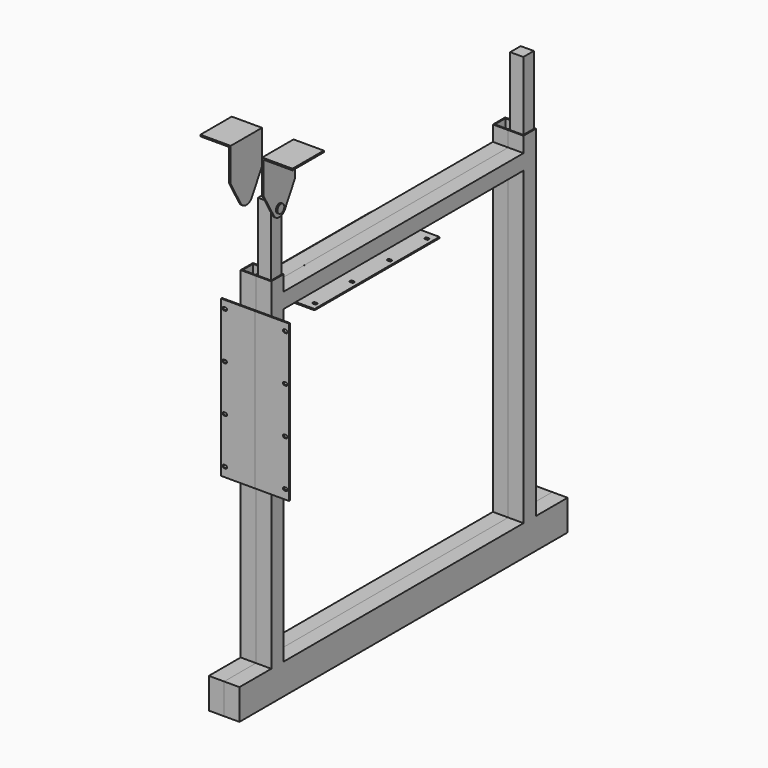
from build123d import *

# Parameters (mm, degrees)
F1_DEPTH  = 25
F0_W      = 255
F0_H      = 2
F0_W_2    = 2
F0_H_2    = 255
F2_DEPTH  = 55.7
F4_DEPTH  = 5
F6_DEPTH  = 28.93182
F7_W      = 21.4
F7_H      = 21.4
F8_DEPTH  = 400
F9_DEPTH  = 512
F10_DEPTH = 512
F11_R     = 7
F12_DEPTH = 2.5
F13_START = 2.5
F13_DEPTH = 5
F14_START = 2.5
F14_DEPTH = 2.5
F15_START = 2.5
F15_DEPTH = 49.5


with BuildPart() as f1:
    # F0 (on Right) → F1 (new body)
    with BuildSketch(Plane.YZ):
        Polygon((-335, 50), (-335, 0), (335, 0), (335, 50), (270, 50), (245, 50), (-245, 50), (-270, 50), align=None)
        Polygon((245, 50), (270, 50), (270, 607), (245, 607), (245, 582), (245, 557), align=None)
        Polygon((-270, 302), (-270, 50), (-245, 50), (-245, 557), (-245, 582), (-245, 607), (-270, 607), (-270, 557), align=None)
        Polygon((-245, 582), (-245, 557), (-220, 557), (35, 557), (245, 557), (245, 582), align=None)
    extrude(amount=F1_DEPTH)

    # F0 (on Right) → F2 (join)
    with BuildSketch(Plane.YZ):
        with Locations((-92.5, 556)):
            Rectangle(F0_W, F0_H)
        with Locations((-271, 429.5)):
            Rectangle(F0_W_2, F0_H_2)
    extrude(amount=F2_DEPTH)

    # F3 (on face) → F4 (cut)
    with BuildSketch(Plane.XY.offset(557)):
        with BuildLine():
            Line((45.2070857087, -209.9991794528), (46.7023868708, -209.9608588466))
            Line((46.7023868708, -209.9608588466), (47.7091592266, -209.9350579391))
            ThreePointArc((47.7091592266, -209.9350579391), (49.6176799062, -207.1448250726), (47.001427156, -205.0040139691))
            Line((47.001427156, -205.0040139691), (45.1484460147, -205.0000058485))
            ThreePointArc((45.1484460147, -205.0000058485), (42.6432103321, -207.5293226766), (45.2070857087, -209.9991794528))
        make_face()
        with BuildLine():
            Line((45.2070857087, -133.7991794528), (46.7023868708, -133.7608588466))
            Line((46.7023868708, -133.7608588466), (47.7091592266, -133.7350579391))
            ThreePointArc((47.7091592266, -133.7350579391), (49.6176799062, -130.9448250726), (47.001427156, -128.8040139691))
            Line((47.001427156, -128.8040139691), (45.1484460147, -128.8000058485))
            ThreePointArc((45.1484460147, -128.8000058485), (42.6432103321, -131.3293226766), (45.2070857087, -133.7991794528))
        make_face()
        with BuildLine():
            Line((45.2070857087, -57.5991794528), (46.7023868708, -57.5608588466))
            Line((46.7023868708, -57.5608588466), (47.7091592266, -57.5350579391))
            ThreePointArc((47.7091592266, -57.5350579391), (49.6176799062, -54.7448250726), (47.001427156, -52.6040139691))
            Line((47.001427156, -52.6040139691), (45.1484460147, -52.6000058485))
            ThreePointArc((45.1484460147, -52.6000058485), (42.6432103321, -55.1293226766), (45.2070857087, -57.5991794528))
        make_face()
        with BuildLine():
            Line((45.2070857087, 18.6008205472), (46.7023868708, 18.6391411534))
            Line((46.7023868708, 18.6391411534), (47.7091592266, 18.6649420609))
            ThreePointArc((47.7091592266, 18.6649420609), (49.6176799062, 21.4551749274), (47.001427156, 23.5959860309))
            Line((47.001427156, 23.5959860309), (45.1484460147, 23.5999941515))
            ThreePointArc((45.1484460147, 23.5999941515), (42.6432103321, 21.0706773234), (45.2070857087, 18.6008205472))
        make_face()
    extrude(amount=-F4_DEPTH, mode=Mode.SUBTRACT)

    # F5 (on face) → F6 (cut)
    with BuildSketch(Plane.XZ.offset(272)):
        with BuildLine():
            Line((48.2, 541.5), (50.7, 541.5))
            ThreePointArc((50.7, 541.5), (53.1999999266, 544.0006056188), (50.6987887625, 546.4999997066))
            Line((50.6987887625, 546.4999997066), (48.2766014255, 546.4988261687))
            ThreePointArc((48.2766014255, 546.4988261687), (45.700293475, 544.0383052094), (48.2, 541.5))
        make_face()
        with BuildLine():
            Line((48.2, 465.9), (50.7, 465.9))
            ThreePointArc((50.7, 465.9), (53.1999999266, 468.4006056188), (50.6987887625, 470.8999997066))
            Line((50.6987887625, 470.8999997066), (48.2766014255, 470.8988261687))
            ThreePointArc((48.2766014255, 470.8988261687), (45.700293475, 468.4383052094), (48.2, 465.9))
        make_face()
        with BuildLine():
            Line((48.2, 390.3), (50.7, 390.3))
            ThreePointArc((50.7, 390.3), (53.1999999266, 392.8006056188), (50.6987887625, 395.2999997066))
            Line((50.6987887625, 395.2999997066), (48.2766014255, 395.2988261687))
            ThreePointArc((48.2766014255, 395.2988261687), (45.700293475, 392.8383052094), (48.2, 390.3))
        make_face()
        with BuildLine():
            Line((48.2, 314.7), (50.7, 314.7))
            ThreePointArc((50.7, 314.7), (53.1999999266, 317.2006056188), (50.6987887625, 319.6999997066))
            Line((50.6987887625, 319.6999997066), (48.2766014255, 319.6988261687))
            ThreePointArc((48.2766014255, 319.6988261687), (45.700293475, 317.2383052094), (48.2, 314.7))
        make_face()
    extrude(amount=-F6_DEPTH, mode=Mode.SUBTRACT)

    # F7 (on face) → F8 (cut)
    with BuildSketch(Plane.XY.offset(607)):
        with Locations((12.5, 257.5)):
            Rectangle(F7_W, F7_H)
        with Locations((12.5, -257.5)):
            Rectangle(F7_W, F7_H)
    extrude(amount=-F8_DEPTH, mode=Mode.SUBTRACT)


with BuildPart() as f9:
    # F9 (new): a face of the model
    f9_faces = [f1.part.faces().sort_by_distance(p)[0] for p in [
        (12.5, -257.5, 207),
    ]]
    extrude(f9_faces, amount=F9_DEPTH)


with BuildPart() as f10:
    # F10 (new): a face of the model
    f10_faces = [f1.part.faces().sort_by_distance(p)[0] for p in [
        (12.5, 257.5, 207),
    ]]
    extrude(f10_faces, amount=F10_DEPTH)


with BuildPart() as f12:
    # F11 (on face) → F12 (new body)
    with BuildSketch(Plane.YZ.offset(23.2)):
        with BuildLine():
            ThreePointArc((-268.2, 708.3), (-257.5, 697.6), (-246.8, 708.3))
            ThreePointArc((-246.8, 708.3), (-249.9339574413, 715.8660425587), (-257.5, 719))
            ThreePointArc((-257.5, 719), (-265.0660425587, 715.8660425587), (-268.2, 708.3))
        make_face()
        with Locations((-257.5, 708.3)):
            Circle(F11_R, mode=Mode.SUBTRACT)
    extrude(amount=F12_DEPTH)


with BuildPart() as f13:
    # F11 (on face) → F13 (new body)
    with BuildSketch(Plane.YZ.offset(23.2).offset(F13_START)):
        with Locations((-257.5, 708.3)):
            Circle(F11_R)
    extrude(amount=F13_DEPTH)

    # F11 (on face) → F14 (join)
    with BuildSketch(Plane.YZ.offset(23.2).offset(F14_START)):
        with BuildLine():
            ThreePointArc((-268.2, 708.3), (-257.5, 697.6), (-246.8, 708.3))
            ThreePointArc((-246.8, 708.3), (-249.9339574413, 715.8660425587), (-257.5, 719))
            ThreePointArc((-257.5, 719), (-265.0660425587, 715.8660425587), (-268.2, 708.3))
        make_face()
        with Locations((-257.5, 708.3)):
            Circle(F11_R, mode=Mode.SUBTRACT)
        with BuildLine():
            Line((-246.8, 700.9169112155), (-246.8, 708.3))
            ThreePointArc((-246.8, 708.3), (-257.5, 697.6), (-268.2, 708.3))
            Line((-268.2, 708.3), (-268.2, 700.9169112155))
            ThreePointArc((-268.2, 700.9169112155), (-257.5, 695.3), (-246.8, 700.9169112155))
        make_face()
        with BuildLine():
            Line((-268.2, 700.9169112155), (-268.2, 708.3))
            Line((-268.2, 708.3), (-268.2, 715.6830887845))
            ThreePointArc((-268.2, 715.6830887845), (-270.4876349777, 708.8668665499), (-268.802578405, 701.8772497013))
            ThreePointArc((-268.802578405, 701.8772497013), (-268.5117631022, 701.3905084571), (-268.2, 700.9169112155))
        make_face()
        with BuildLine():
            Line((-246.8, 715.6830887845), (-246.8, 708.3))
            Line((-246.8, 708.3), (-246.8, 700.9169112155))
            ThreePointArc((-246.8, 700.9169112155), (-246.4882368978, 701.3905084571), (-246.197421595, 701.8772497013))
            ThreePointArc((-246.197421595, 701.8772497013), (-244.9315172104, 704.9783678157), (-244.5, 708.3))
            ThreePointArc((-244.5, 708.3), (-245.0883119601, 712.1665229858), (-246.8, 715.6830887845))
        make_face()
        with BuildLine():
            ThreePointArc((-257.5, 719), (-249.9339574413, 715.8660425587), (-246.8, 708.3))
            Line((-246.8, 708.3), (-246.8, 715.6830887845))
            ThreePointArc((-246.8, 715.6830887845), (-248.3076118446, 717.4923881554), (-250.1169112155, 719))
            Line((-250.1169112155, 719), (-257.5, 719))
        make_face()
        with BuildLine():
            ThreePointArc((-268.2, 708.3), (-265.0660425587, 715.8660425587), (-257.5, 719))
            Line((-257.5, 719), (-264.8830887845, 719))
            ThreePointArc((-264.8830887845, 719), (-266.6923881554, 717.4923881554), (-268.2, 715.6830887845))
            Line((-268.2, 715.6830887845), (-268.2, 708.3))
        make_face()
        with BuildLine():
            Line((-264.8830887845, 719), (-257.5, 719))
            Line((-257.5, 719), (-250.1169112155, 719))
            ThreePointArc((-250.1169112155, 719), (-257.5, 721.3), (-264.8830887845, 719))
        make_face()
        with BuildLine():
            Line((-246.8, 719), (-246.8, 715.6830887845))
            ThreePointArc((-246.8, 715.6830887845), (-245.0883119601, 712.1665229858), (-244.5, 708.3))
            ThreePointArc((-244.5, 708.3), (-244.9315172104, 704.9783678157), (-246.197421595, 701.8772497013))
            Line((-246.197421595, 701.8772497013), (-225.5, 738.3))
            Line((-225.5, 738.3), (-225.5, 790.8))
            Line((-225.5, 790.8), (-257.5, 790.8))
            Line((-257.5, 790.8), (-289.5, 790.8))
            Line((-289.5, 790.8), (-289.5, 738.3))
            Line((-289.5, 738.3), (-268.802578405, 701.8772497013))
            ThreePointArc((-268.802578405, 701.8772497013), (-270.4876349777, 708.8668665499), (-268.2, 715.6830887845))
            Line((-268.2, 715.6830887845), (-268.2, 719))
            Line((-268.2, 719), (-264.8830887845, 719))
            ThreePointArc((-264.8830887845, 719), (-257.5, 721.3), (-250.1169112155, 719))
            Line((-250.1169112155, 719), (-246.8, 719))
        make_face()
        with BuildLine():
            ThreePointArc((-250.1169112155, 719), (-248.3076118446, 717.4923881554), (-246.8, 715.6830887845))
            Line((-246.8, 715.6830887845), (-246.8, 719))
            Line((-246.8, 719), (-250.1169112155, 719))
        make_face()
        with BuildLine():
            ThreePointArc((-268.2, 715.6830887845), (-266.6923881554, 717.4923881554), (-264.8830887845, 719))
            Line((-264.8830887845, 719), (-268.2, 719))
            Line((-268.2, 719), (-268.2, 715.6830887845))
        make_face()
    extrude(amount=F14_DEPTH)

    # F11 (on face) → F15 (join)
    with BuildSketch(Plane.YZ.offset(23.2).offset(F15_START)):
        Polygon((-257.5, 790.8), (-225.5, 790.8), (-225.5, 793.3), (-257.5, 793.3), (-289.5, 793.3), (-289.5, 790.8), align=None)
    extrude(amount=F15_DEPTH)


with BuildPart() as f16_1:
    # F16: instance of F1
    add(f1.part.mirror(Plane.YZ))


with BuildPart() as f16_2:
    # F16: instance of F13
    add(f13.part.mirror(Plane.YZ))


solid = Compound([f1.part, f9.part, f10.part, f12.part, f13.part, f16_1.part, f16_2.part])
